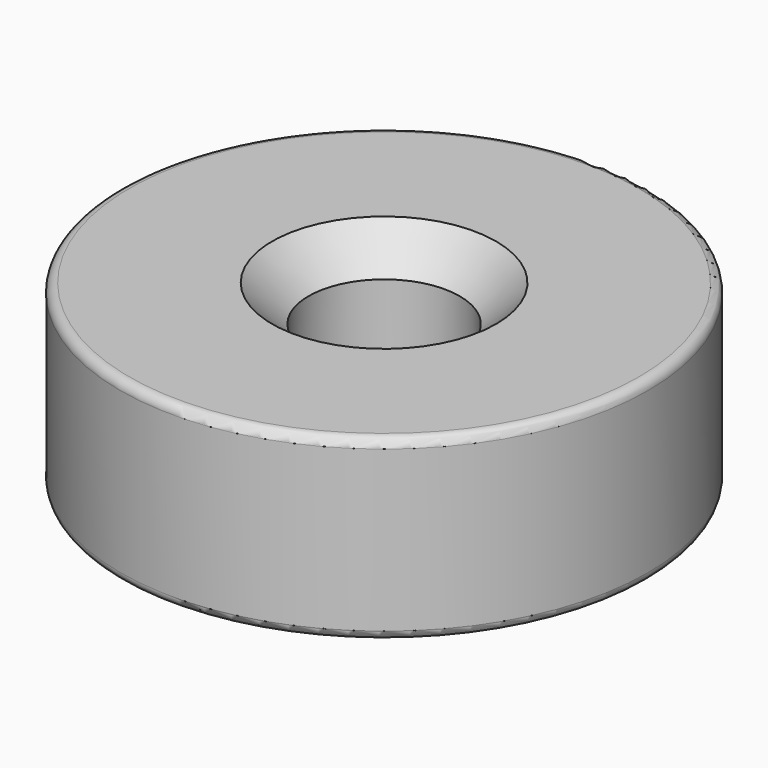
from build123d import *

# Parameters (mm, degrees)
F0_R     = 14.5
F0_R_2   = 4.15
F1_DEPTH = 9.8
F2_SIZE  = 2
F4_DEPTH = 7.8
F5_R     = 0.5


with BuildPart() as f1:
    # F0 (on Top) → F1 (new body)
    with BuildSketch(Plane.XY):
        Circle(F0_R)
        Circle(F0_R_2, mode=Mode.SUBTRACT)
    extrude(amount=F1_DEPTH)

    # F2
    f2_edges = [f1.edges().sort_by_distance(p)[0] for p in [
        (-4.15, 0, 9.8),
        (-4.15, 0, 0),
    ]]
    chamfer(f2_edges, length=F2_SIZE)

    # F3 (on face) → F4 (cut)
    with BuildSketch(Plane(origin=(0, 0, 0), x_dir=(1, 0, 0), z_dir=(0, 0, -1))):
        with BuildLine():
            Line((2.53053, 6.526593), (4.653059, 11.277812))
            ThreePointArc((4.653059, 11.277812), (0, 12.2), (-4.653059, 11.277812))
            Line((-4.653059, 11.277812), (-2.53053, 6.526593))
            ThreePointArc((-2.53053, 6.526593), (0, 7), (2.53053, 6.526593))
        make_face()
        with BuildLine():
            Line((-6.453522, 2.711468), (-11.163082, 4.92195))
            ThreePointArc((-11.163082, 4.92195), (-12.2, 0), (-11.163082, -4.92195))
            Line((-11.163082, -4.92195), (-6.453522, -2.711468))
            ThreePointArc((-6.453522, -2.711468), (-7, 0), (-6.453522, 2.711468))
        make_face()
        with BuildLine():
            Line((4.653059, -11.277812), (2.53053, -6.526593))
            ThreePointArc((2.53053, -6.526593), (0, -7), (-2.53053, -6.526593))
            Line((-2.53053, -6.526593), (-4.653059, -11.277812))
            ThreePointArc((-4.653059, -11.277812), (0, -12.2), (4.653059, -11.277812))
        make_face()
        with BuildLine():
            Line((11.163082, 4.92195), (6.453522, 2.711468))
            ThreePointArc((6.453522, 2.711468), (7, 0), (6.453522, -2.711468))
            Line((6.453522, -2.711468), (11.163082, -4.92195))
            ThreePointArc((11.163082, -4.92195), (12.2, 0), (11.163082, 4.92195))
        make_face()
    extrude(amount=-F4_DEPTH, mode=Mode.SUBTRACT)

    # F5
    f5_edges = [f1.edges().sort_by_distance(p)[0] for p in [
        (-14.5, 0, 9.8),
        (-14.5, 0, 0),
    ]]
    fillet(f5_edges, radius=F5_R)


solid = f1.part
